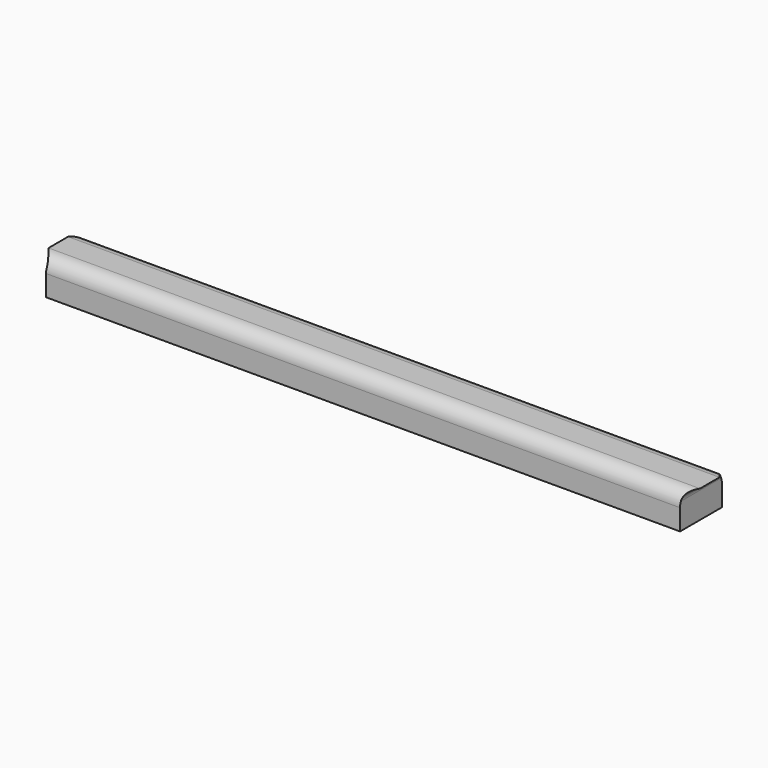
from build123d import *

# Parameters (mm, degrees)
F1_DEPTH = 19.05
F2_R     = 5.08


with BuildPart() as f1:
    # F0 (on Front) → F1 (new body)
    with BuildSketch(Plane.XZ):
        with BuildLine():
            ThreePointArc((115.38966, 3.175), (116.319596, 5.420064), (118.56466, 6.35))
            Line((118.56466, 6.35), (-118.56466, 6.35))
            ThreePointArc((-118.56466, 6.35), (-116.319596, 5.420064), (-115.38966, 3.175))
            Line((-115.38966, 3.175), (-115.38966, -6.35))
            Line((-115.38966, -6.35), (115.38966, -6.35))
            Line((115.38966, -6.35), (115.38966, 3.175))
        make_face()
    extrude(amount=F1_DEPTH)

    # F2
    f2_edges = [f1.edges().sort_by_distance(p)[0] for p in [
        (0, -19.05, 6.35),
        (0, 0, 6.35),
    ]]
    fillet(f2_edges, radius=F2_R)


solid = f1.part
